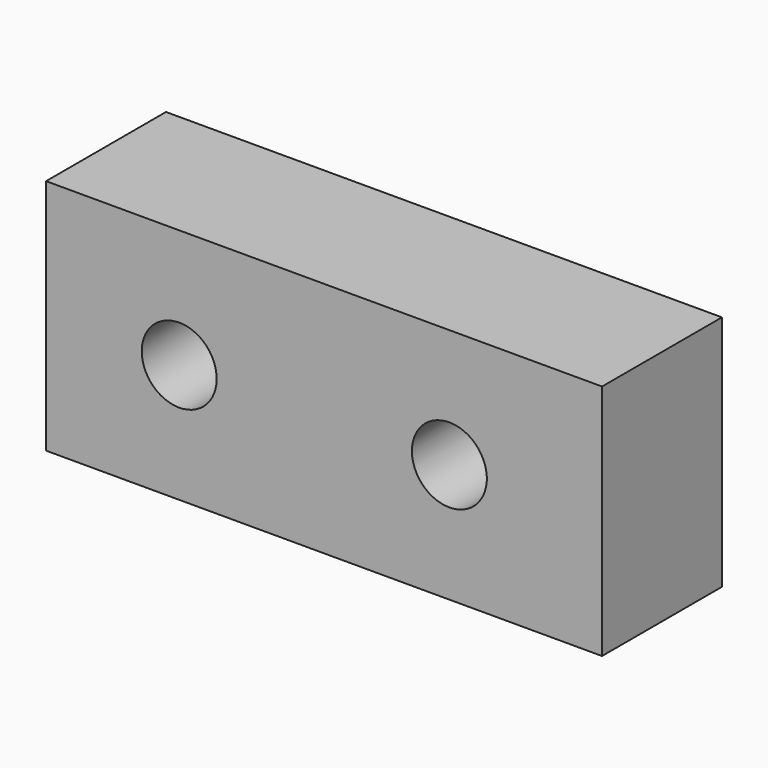
from build123d import *

# Parameters (mm, degrees)
F0_W     = 47.1180379391
F0_H     = 20.1085954905
F1_DEPTH = 6.35
F2_D     = 6.35
F2_DEPTH = 6.351
F4_D     = 6.35


with BuildPart() as f1:
    # F0 (on Front) → F1 (new body, symmetric)
    with BuildSketch(Plane.XZ):
        Rectangle(F0_W, F0_H)
    extrude(amount=F1_DEPTH, both=True)

    # F2 (through all, one way)
    with BuildSketch(Plane(origin=(0, 0, 0), x_dir=(1, 0, 0), z_dir=(0, 1, 0))):
        with Locations((-12.2772194445, 0)):
            Circle(F2_D / 2)
    extrude(amount=-F2_DEPTH, mode=Mode.SUBTRACT)

    # F4 (through all)
    with Locations(Plane.XZ.offset(6.35)):
        with Locations((10.6193870306, 0)):
            Hole(F4_D / 2)


solid = f1.part
